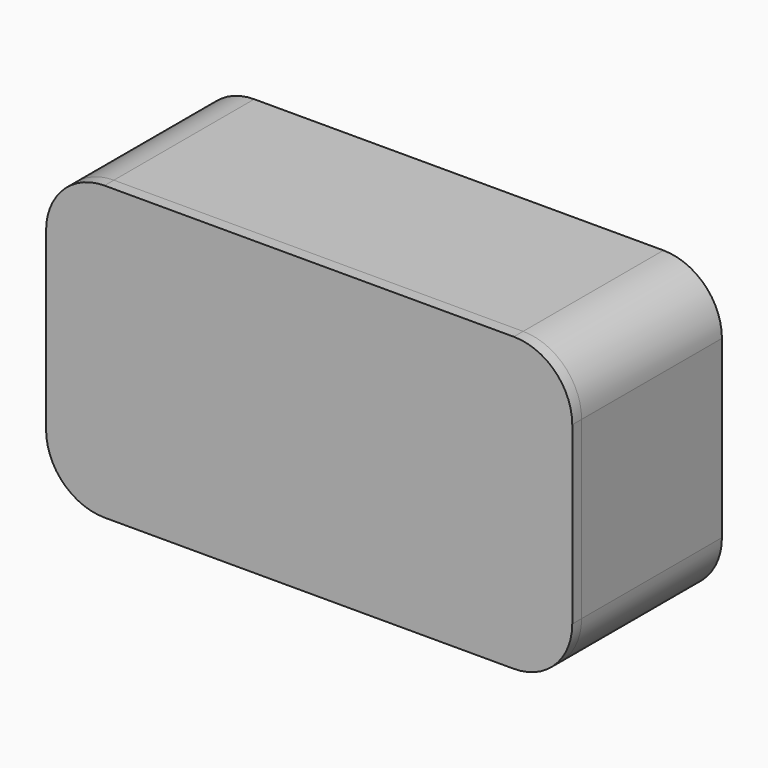
from build123d import *

# Parameters (mm, degrees)
F5_W     = 114.3
F5_H     = 63.5
F6_DEPTH = 38.1
F0_R     = 12.7
F1_T     = -2.54
F8_DEPTH = 7.62
F9_DEPTH = 27.94
F3_DEPTH = 2.54


with BuildPart() as f6:
    # F5 (on Front) → F6 (new body)
    with BuildSketch(Plane.XZ):
        Rectangle(F5_W, F5_H)
    extrude(amount=F6_DEPTH)

    # F0
    f0_edges = [f6.edges().sort_by_distance(p)[0] for p in [
        (57.15, -19.05, 31.75),
        (57.15, -19.05, -31.75),
        (-57.15, -19.05, -31.75),
        (-57.15, -19.05, 31.75),
    ]]
    fillet(f0_edges, radius=F0_R)

    # F1
    f1_openings = [f6.faces().sort_by_distance(p)[0] for p in [
        (0, -38.1, 0),
    ]]
    offset(amount=F1_T, openings=f1_openings)

    # F7 (on face) → F8 (join)
    with BuildSketch(Plane.XZ.offset(2.54)):
        with BuildLine():
            ThreePointArc((54.61, 19.05), (51.6342048969, 26.2342048969), (44.45, 29.21))
            Line((44.45, 29.21), (-44.45, 29.21))
            ThreePointArc((-44.45, 29.21), (-51.6342048969, 26.2342048969), (-54.61, 19.05))
            Line((-54.61, 19.05), (-54.61, -19.05))
            ThreePointArc((-54.61, -19.05), (-51.6342048969, -26.2342048969), (-44.45, -29.21))
            Line((-44.45, -29.21), (44.45, -29.21))
            ThreePointArc((44.45, -29.21), (51.6342048969, -26.2342048969), (54.61, -19.05))
            Line((54.61, -19.05), (54.61, 19.05))
        make_face()
        with BuildLine():
            Line((-44.45, 26.67), (44.45, 26.67))
            ThreePointArc((44.45, 26.67), (49.8381536726, 24.4381536726), (52.07, 19.05))
            Line((52.07, 19.05), (52.07, -19.05))
            ThreePointArc((52.07, -19.05), (49.8381536726, -24.4381536726), (44.45, -26.67))
            Line((44.45, -26.67), (-44.45, -26.67))
            ThreePointArc((-44.45, -26.67), (-49.8381536726, -24.4381536726), (-52.07, -19.05))
            Line((-52.07, -19.05), (-52.07, 19.05))
            ThreePointArc((-52.07, 19.05), (-49.8381536726, 24.4381536726), (-44.45, 26.67))
        make_face(mode=Mode.SUBTRACT)
    extrude(amount=F8_DEPTH)


with BuildPart() as f9:
    # F9 (new): a face of the model
    f9_faces = [f6.part.faces().sort_by_distance(p)[0] for p in [
        (50.7583651627, -10.16, 25.3583651627),
    ]]
    extrude(f9_faces, amount=F9_DEPTH)

    # F2 (on face) → F3 (join)
    with BuildSketch(Plane.XZ.offset(38.1)):
        with BuildLine():
            ThreePointArc((44.45, -31.75), (53.4302561211, -28.0302561211), (57.15, -19.05))
            Line((57.15, -19.05), (57.15, 19.05))
            ThreePointArc((57.15, 19.05), (53.4302561211, 28.0302561211), (44.45, 31.75))
            Line((44.45, 31.75), (-44.45, 31.75))
            ThreePointArc((-44.45, 31.75), (-53.4302561211, 28.0302561211), (-57.15, 19.05))
            Line((-57.15, 19.05), (-57.15, -19.05))
            ThreePointArc((-57.15, -19.05), (-53.4302561211, -28.0302561211), (-44.45, -31.75))
            Line((-44.45, -31.75), (44.45, -31.75))
        make_face()
    extrude(amount=F3_DEPTH)


solid = Compound([f6.part, f9.part])
